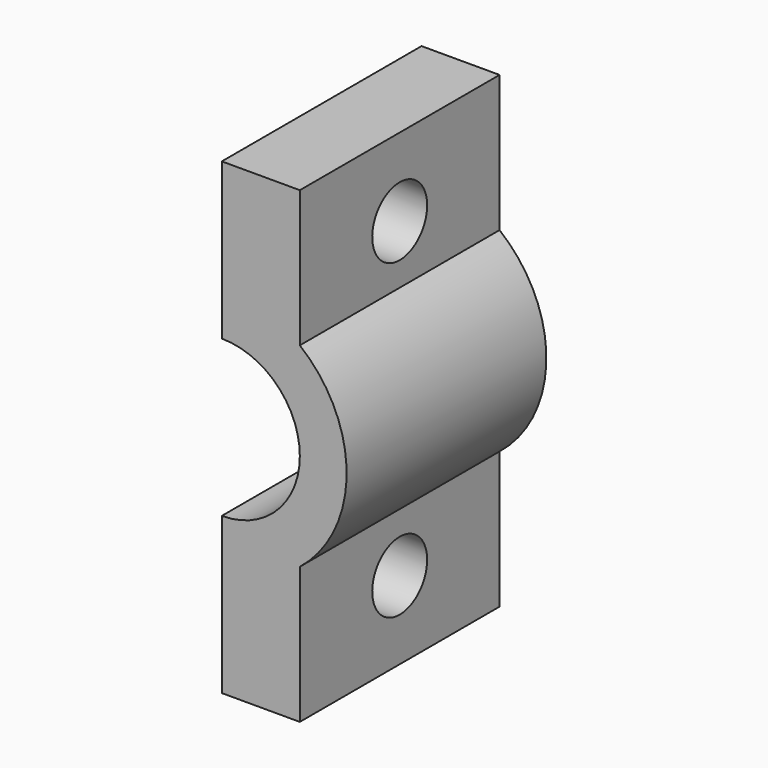
from build123d import *

# Parameters (mm, degrees)
CYLINDER070_R          = 2.2
CYLINDER070_DEPTH      = 20
CYLINDER069_R          = 2.2
CYLINDER069_DEPTH      = 20
CYLINDER068_R          = 5
CYLINDER068_DEPTH      = 16
CYLINDER065_W          = 8
CYLINDER065_H          = 16
CYLINDER065_ANGLE      = 180
BOX052_W               = 30
BOX052_H               = 5
BOX052_DEPTH           = 16
CUT076_PITCH_ANGLE     = 90
CUT076_PLACEMENT_ANGLE = 90


with BuildPart() as zylinder059:
    # Cylinder070 → Cylinder070 (new body)
    with BuildSketch(Plane(origin=(10, 9, 8), x_dir=(1, 0, 0), z_dir=(0, -1, 0))):
        Circle(CYLINDER070_R)
    extrude(amount=CYLINDER070_DEPTH)


with BuildPart() as zylinder058:
    # Cylinder069 → Cylinder069 (new body)
    with BuildSketch(Plane(origin=(-10, 9, 8), x_dir=(1, 0, 0), z_dir=(0, -1, 0))):
        Circle(CYLINDER069_R)
    extrude(amount=CYLINDER069_DEPTH)


with BuildPart() as zylinder057:
    # Cylinder068 → Cylinder068 (new body)
    with BuildSketch(Plane.XY):
        Circle(CYLINDER068_R)
    extrude(amount=CYLINDER068_DEPTH)


with BuildPart() as zylinder054:
    # Cylinder065 → Cylinder065 (revolve)
    with BuildSketch(Plane(origin=(0, 0, 0), x_dir=(-1, 0, 0), z_dir=(0, 1, 0))):
        with Locations((4, 8)):
            Rectangle(CYLINDER065_W, CYLINDER065_H)
    revolve(axis=Axis((0, 0, 0), (0, 0, 1)), revolution_arc=CYLINDER065_ANGLE)


with BuildPart() as y_mount_top:
    # Box052 → Box052 (new body)
    with BuildSketch(Plane(origin=(-15, -5, 0), x_dir=(1, 0, 0), z_dir=(0, 0, 1))):
        with Locations((15, 2.5)):
            Rectangle(BOX052_W, BOX052_H)
    extrude(amount=BOX052_DEPTH)

    # Fusion035: union Zylinder054
    add(zylinder054.part)

    # Cut072: cut Zylinder057
    add(zylinder057.part, mode=Mode.SUBTRACT)

    # Cut075: cut Zylinder058
    add(zylinder058.part, mode=Mode.SUBTRACT)

    # Cut076: cut Zylinder059
    add(zylinder059.part, mode=Mode.SUBTRACT)


with BuildPart() as y_mount_top_1:
    # Cut076 pitch: moved
    add(y_mount_top.part.rotate(Axis((0, 0, 0), (0, 1, 0)), CUT076_PITCH_ANGLE))


with BuildPart() as y_mount_top_2:
    # Cut076 placement: moved
    add(y_mount_top_1.part.moved(Location((-9.75, -14.15, 29.85))).rotate(Axis((-9.75, -14.15, 29.85), (0, 0, 1)), CUT076_PLACEMENT_ANGLE))


solid = y_mount_top_2.part
